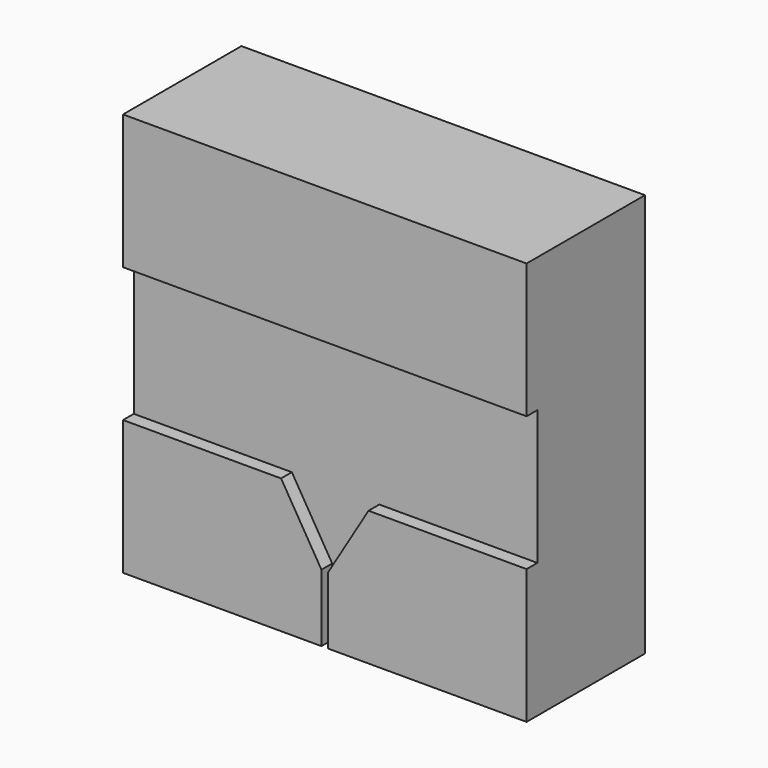
from build123d import *

# Parameters (mm, degrees)
F0_W     = 30
F0_H     = 30
F1_DEPTH = 10
F2_W     = 30
F2_H     = 10
F3_DEPTH = 1


with BuildPart() as f1:
    # F0 (on Front) → F1 (new body)
    with BuildSketch(Plane.XZ):
        Rectangle(F0_W, F0_H)
    extrude(amount=F1_DEPTH)

    # F2 (on face) → F3 (join)
    with BuildSketch(Plane.XZ.offset(10)):
        with Locations((0, 10)):
            Rectangle(F2_W, F2_H)
        Polygon((-3.25, -5), (-15, -5), (-15, -15), (-0.25, -15), (-0.25, -10), align=None)
        Polygon((15, -15), (15, -5), (3.25, -5), (0.25, -10), (0.25, -15), align=None)
    extrude(amount=F3_DEPTH)


solid = f1.part
